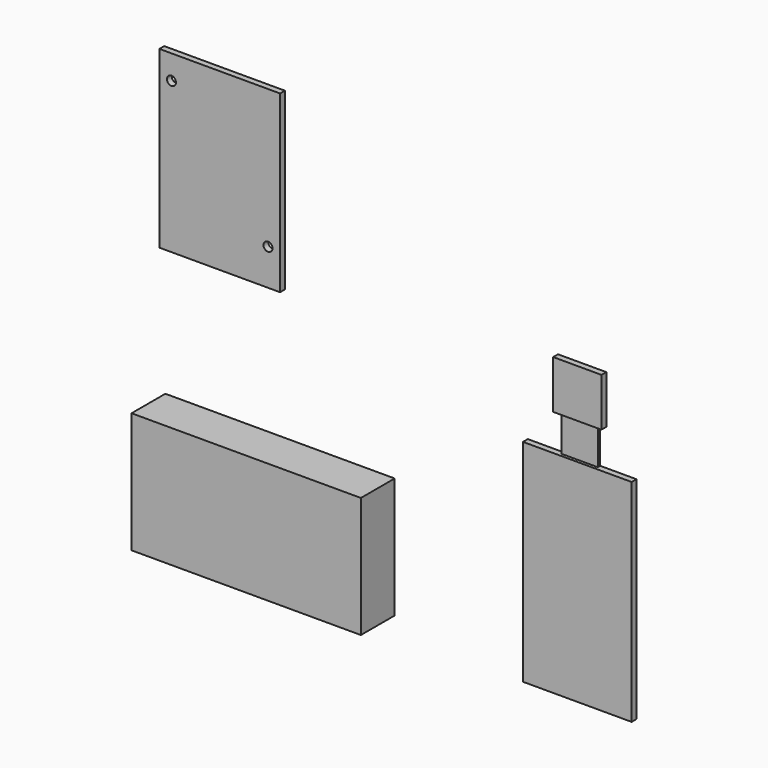
from build123d import *

# Parameters (mm, degrees)
F0_W     = 20
F0_H     = 29
F1_DEPTH = 1
F2_R     = 0.75
F3_DEPTH = 25
F5_DEPTH = 1
F4_W     = 6
F4_H     = 6
F6_DEPTH = 0.5
F7_W     = 38
F7_H     = 20
F8_DEPTH = 7


with BuildPart() as f1:
    # F0 (on Front) → F1 (new body)
    with BuildSketch(Plane.XZ):
        with Locations((-10, 14.5)):
            Rectangle(F0_W, F0_H)
    extrude(amount=F1_DEPTH)

    # F2 (on face) → F3 (cut)
    with BuildSketch(Plane.XZ.offset(1)):
        with Locations((-2, 6)):
            Circle(F2_R)
        with Locations((-18, 25)):
            Circle(F2_R)
    extrude(amount=-F3_DEPTH, mode=Mode.SUBTRACT)


with BuildPart() as f5:
    # F4 (on Front) → F5 (new body)
    with BuildSketch(Plane.XZ):
        Polygon((40.253546, -43.734884), (58.253546, -43.734884), (58.253546, -8.734884), (52.253546, -8.734884), (46.253546, -8.734884), (40.253546, -8.734884), align=None)
        Polygon((46.253546, -2.734884), (52.253546, -2.734884), (53.253546, -2.734884), (53.253546, 5.265116), (45.253546, 5.265116), (45.253546, -2.734884), align=None)
    extrude(amount=F5_DEPTH)


with BuildPart() as f6:
    # F4 (on Front) → F6 (new body)
    with BuildSketch(Plane.XZ):
        with Locations((49.253546, -5.734884)):
            Rectangle(F4_W, F4_H)
    extrude(amount=F6_DEPTH)


with BuildPart() as f8:
    # F7 (on Front) → F8 (new body)
    with BuildSketch(Plane.XZ):
        with Locations((-6.408643, -36.319511)):
            Rectangle(F7_W, F7_H)
    extrude(amount=-F8_DEPTH)


solid = Compound([f1.part, f5.part, f6.part, f8.part])
